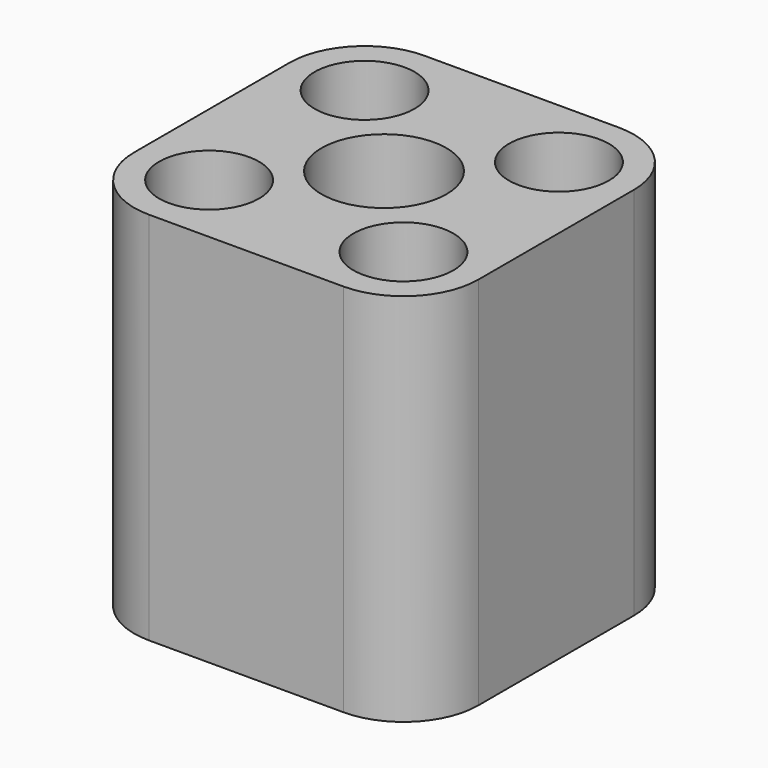
from build123d import *

# Parameters (mm, degrees)
F0_R     = 2
F1_DEPTH = 15


with BuildPart() as f1:
    # F0 (on Top) → F1 (new body)
    with BuildSketch(Plane.XY):
        with BuildLine():
            ThreePointArc((-2.474874, -2.474874), (-5.736846, -4.654454), (-1.889087, -3.889087))
            ThreePointArc((-1.889087, -3.889087), (-2.041328, -3.12372), (-2.474874, -2.474874))
        make_face()
        with BuildLine():
            ThreePointArc((5.889087, 3.889087), (3.12372, 5.736846), (2.474874, 2.474874))
            ThreePointArc((2.474874, 2.474874), (4.654454, 2.041328), (5.889087, 3.889087))
        make_face()
        with BuildLine():
            ThreePointArc((-6.889087, -3.889087), (-6.010408, -6.010408), (-3.889087, -6.889087))
            Line((-3.889087, -6.889087), (3.889087, -6.889087))
            ThreePointArc((3.889087, -6.889087), (6.010408, -6.010408), (6.889087, -3.889087))
            Line((6.889087, -3.889087), (6.889087, 3.889087))
            ThreePointArc((6.889087, 3.889087), (6.010408, 6.010408), (3.889087, 6.889087))
            Line((3.889087, 6.889087), (-3.889087, 6.889087))
            ThreePointArc((-3.889087, 6.889087), (-6.010408, 6.010408), (-6.889087, 3.889087))
            Line((-6.889087, 3.889087), (-6.889087, -3.889087))
        make_face()
        with BuildLine():
            ThreePointArc((-2.474874, -2.474874), (-2.041328, -3.12372), (-1.889087, -3.889087))
            ThreePointArc((-1.889087, -3.889087), (-5.736846, -4.654454), (-2.474874, -2.474874))
        make_face(mode=Mode.SUBTRACT)
        with Locations((3.889087, -3.889087)):
            Circle(F0_R, mode=Mode.SUBTRACT)
        with Locations((-3.889087, 3.889087)):
            Circle(F0_R, mode=Mode.SUBTRACT)
        with BuildLine():
            ThreePointArc((2.5, 0), (0.956709, -2.309699), (-1.767767, -1.767767))
            ThreePointArc((-1.767767, -1.767767), (-1.767767, 1.767767), (1.767767, 1.767767))
            ThreePointArc((1.767767, 1.767767), (2.309699, 0.956709), (2.5, 0))
        make_face(mode=Mode.SUBTRACT)
        with BuildLine():
            ThreePointArc((5.889087, 3.889087), (4.654454, 2.041328), (2.474874, 2.474874))
            ThreePointArc((2.474874, 2.474874), (3.12372, 5.736846), (5.889087, 3.889087))
        make_face(mode=Mode.SUBTRACT)
    extrude(amount=F1_DEPTH)


solid = f1.part
